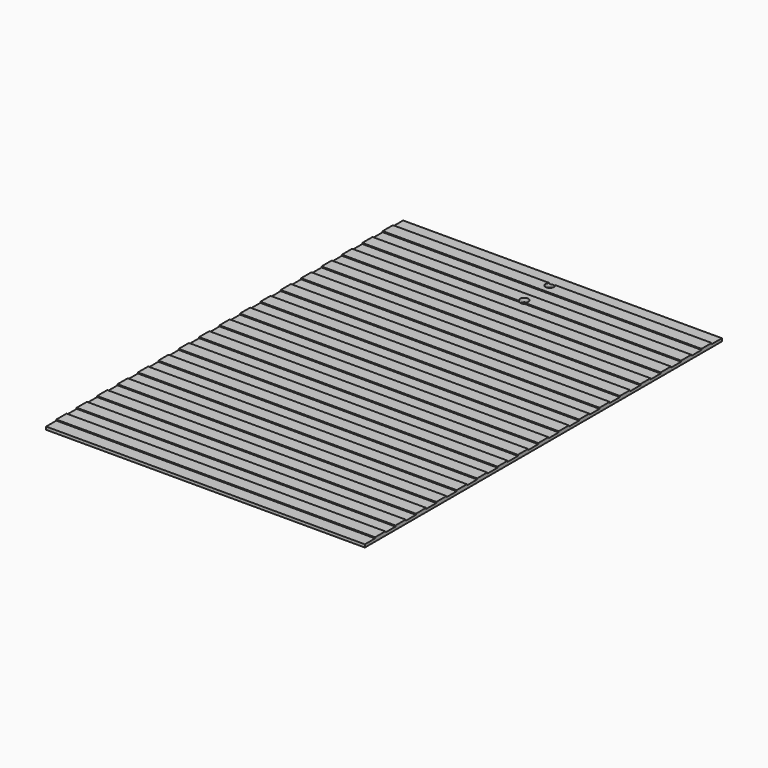
from build123d import *

# Parameters (mm, degrees)
F0_W     = 500
F0_H     = 20
F1_DEPTH = 4.5
F2_DEPTH = 6.1
F3_D     = 13


with BuildPart() as f1:
    # F0 (on Top) → F1 (new body)
    with BuildSketch(Plane.XY):
        with Locations((0, 340)):
            Rectangle(F0_W, F0_H)
    extrude(amount=F1_DEPTH)



with BuildPart() as f1b:
    # F0 (on Top) → F1, piece 2 (new body)
    with BuildSketch(Plane.XY):
        with Locations((0, 300)):
            Rectangle(F0_W, F0_H)
    extrude(amount=F1_DEPTH)


with BuildPart() as f1c:
    # F0 (on Top) → F1, piece 3 (new body)
    with BuildSketch(Plane.XY):
        with Locations((0, 260)):
            Rectangle(F0_W, F0_H)
    extrude(amount=F1_DEPTH)


with BuildPart() as f1d:
    # F0 (on Top) → F1, piece 4 (new body)
    with BuildSketch(Plane.XY):
        with Locations((0, 220)):
            Rectangle(F0_W, F0_H)
    extrude(amount=F1_DEPTH)


with BuildPart() as f1e:
    # F0 (on Top) → F1, piece 5 (new body)
    with BuildSketch(Plane.XY):
        with Locations((0, 180)):
            Rectangle(F0_W, F0_H)
    extrude(amount=F1_DEPTH)


with BuildPart() as f1f:
    # F0 (on Top) → F1, piece 6 (new body)
    with BuildSketch(Plane.XY):
        with Locations((0, 140)):
            Rectangle(F0_W, F0_H)
    extrude(amount=F1_DEPTH)


with BuildPart() as f1g:
    # F0 (on Top) → F1, piece 7 (new body)
    with BuildSketch(Plane.XY):
        with Locations((0, 100)):
            Rectangle(F0_W, F0_H)
    extrude(amount=F1_DEPTH)


with BuildPart() as f1h:
    # F0 (on Top) → F1, piece 8 (new body)
    with BuildSketch(Plane.XY):
        with Locations((0, 60)):
            Rectangle(F0_W, F0_H)
    extrude(amount=F1_DEPTH)


with BuildPart() as f1i:
    # F0 (on Top) → F1, piece 9 (new body)
    with BuildSketch(Plane.XY):
        with Locations((0, 20)):
            Rectangle(F0_W, F0_H)
    extrude(amount=F1_DEPTH)


with BuildPart() as f1j:
    # F0 (on Top) → F1, piece 10 (new body)
    with BuildSketch(Plane.XY):
        with Locations((0, -20)):
            Rectangle(F0_W, F0_H)
    extrude(amount=F1_DEPTH)


with BuildPart() as f1k:
    # F0 (on Top) → F1, piece 11 (new body)
    with BuildSketch(Plane.XY):
        with Locations((0, -60)):
            Rectangle(F0_W, F0_H)
    extrude(amount=F1_DEPTH)


with BuildPart() as f1l:
    # F0 (on Top) → F1, piece 12 (new body)
    with BuildSketch(Plane.XY):
        with Locations((0, -100)):
            Rectangle(F0_W, F0_H)
    extrude(amount=F1_DEPTH)


with BuildPart() as f1m:
    # F0 (on Top) → F1, piece 13 (new body)
    with BuildSketch(Plane.XY):
        with Locations((0, -140)):
            Rectangle(F0_W, F0_H)
    extrude(amount=F1_DEPTH)


with BuildPart() as f1n:
    # F0 (on Top) → F1, piece 14 (new body)
    with BuildSketch(Plane.XY):
        with Locations((0, -180)):
            Rectangle(F0_W, F0_H)
    extrude(amount=F1_DEPTH)


with BuildPart() as f1o:
    # F0 (on Top) → F1, piece 15 (new body)
    with BuildSketch(Plane.XY):
        with Locations((0, -220)):
            Rectangle(F0_W, F0_H)
    extrude(amount=F1_DEPTH)


with BuildPart() as f1p:
    # F0 (on Top) → F1, piece 16 (new body)
    with BuildSketch(Plane.XY):
        with Locations((0, -260)):
            Rectangle(F0_W, F0_H)
    extrude(amount=F1_DEPTH)


with BuildPart() as f1q:
    # F0 (on Top) → F1, piece 17 (new body)
    with BuildSketch(Plane.XY):
        with Locations((0, -300)):
            Rectangle(F0_W, F0_H)
    extrude(amount=F1_DEPTH)


with BuildPart() as f1r:
    # F0 (on Top) → F1, piece 18 (new body)
    with BuildSketch(Plane.XY):
        with Locations((0, -340)):
            Rectangle(F0_W, F0_H)
    extrude(amount=F1_DEPTH)


with BuildPart() as f1_1:
    add(f1.part)

    add(f1b.part)  # F2 merges F1b

    add(f1c.part)  # F2 merges F1c

    add(f1d.part)  # F2 merges F1d

    add(f1e.part)  # F2 merges F1e

    add(f1f.part)  # F2 merges F1f

    add(f1g.part)  # F2 merges F1g

    add(f1h.part)  # F2 merges F1h

    add(f1i.part)  # F2 merges F1i

    add(f1j.part)  # F2 merges F1j

    add(f1k.part)  # F2 merges F1k

    add(f1l.part)  # F2 merges F1l

    add(f1m.part)  # F2 merges F1m

    add(f1n.part)  # F2 merges F1n

    add(f1o.part)  # F2 merges F1o

    add(f1p.part)  # F2 merges F1p

    add(f1q.part)  # F2 merges F1q

    add(f1r.part)  # F2 merges F1r
    # F0 (on Top) → F2 (join)
    with BuildSketch(Plane.XY):
        with Locations((0, 320)):
            Rectangle(F0_W, F0_H)
        with Locations((0, 280)):
            Rectangle(F0_W, F0_H)
        with Locations((0, 240)):
            Rectangle(F0_W, F0_H)
        with Locations((0, 200)):
            Rectangle(F0_W, F0_H)
        with Locations((0, 160)):
            Rectangle(F0_W, F0_H)
        with Locations((0, 120)):
            Rectangle(F0_W, F0_H)
        with Locations((0, 80)):
            Rectangle(F0_W, F0_H)
        with Locations((0, 40)):
            Rectangle(F0_W, F0_H)
        Rectangle(F0_W, F0_H)
        with Locations((0, -40)):
            Rectangle(F0_W, F0_H)
        with Locations((0, -80)):
            Rectangle(F0_W, F0_H)
        with Locations((0, -120)):
            Rectangle(F0_W, F0_H)
        with Locations((0, -160)):
            Rectangle(F0_W, F0_H)
        with Locations((0, -200)):
            Rectangle(F0_W, F0_H)
        with Locations((0, -240)):
            Rectangle(F0_W, F0_H)
        with Locations((0, -280)):
            Rectangle(F0_W, F0_H)
        with Locations((0, -320)):
            Rectangle(F0_W, F0_H)
    extrude(amount=F2_DEPTH)

    # F3 (through all)
    with Locations(Plane(origin=(0, 0, 0), x_dir=(1, 0, 0), z_dir=(0, 0, -1))):
        with Locations((0, -325), (0, -275)):
            Hole(F3_D / 2)


solid = f1_1.part
